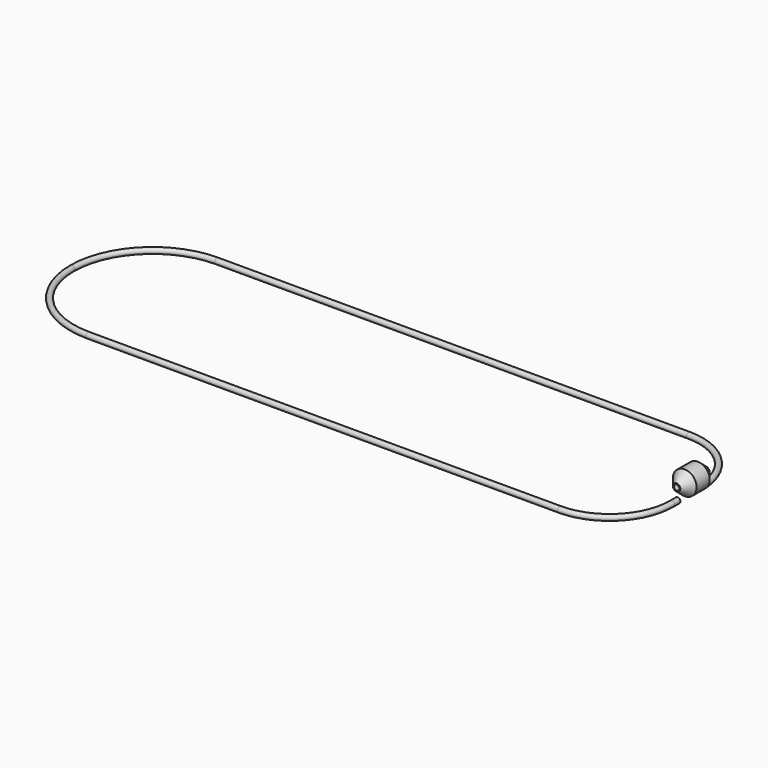
from build123d import *

# Parameters (mm, degrees)
F1_R   = 4.7625
F1_R_2 = 3.5179


with BuildPart() as f3:
    # F2 (on Right) → F3 (revolve)
    with BuildSketch(Plane.YZ):
        Polygon((-40.336184, 26.9875), (-40.336184, 25.4), (23.163816, 25.4), (23.163816, 26.9875), (5.701316, 41.275), (-22.873684, 41.275), align=None)
    revolve(axis=Axis((0, -8.586184, 20.6375), (0, 1, 0)))


with BuildPart() as f4:
    # F4: sweep along a path in F0
    with BuildLine(Plane.XY) as f4_path:
        Line((0, 0), (0, 12.7))
        ThreePointArc((0, 12.7), (-31.617823, 89.032177), (-107.95, 120.65))
        Line((-107.95, 120.65), (-927.1, 120.65))
        ThreePointArc((-927.1, 120.65), (-1025.882817, 79.732817), (-1066.8, -19.05))
        ThreePointArc((-1066.8, -19.05), (-1025.882817, -117.832817), (-927.1, -158.75))
        Line((-927.1, -158.75), (-107.95, -158.75))
        ThreePointArc((-107.95, -158.75), (-31.617823, -127.132177), (0, -50.8))
        Line((0, -50.8), (0, -38.1))
    # F1 (on Front) → F4 (sweep)
    with BuildSketch(Plane.XZ):
        Circle(F1_R)
        Circle(F1_R_2, mode=Mode.SUBTRACT)
    sweep(path=f4_path.line)


solid = Compound([f3.part, f4.part])
